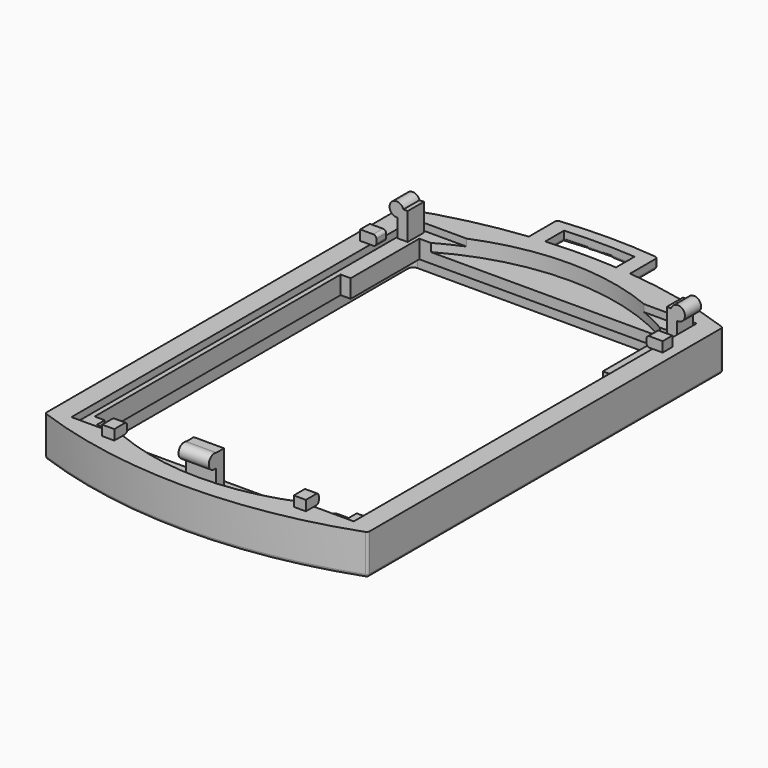
from build123d import *

# Parameters (mm, degrees)
CYLINDER001_R             = 0.7
CYLINDER001_DEPTH         = 2
CYLINDER001_ROLL_ANGLE    = 90
BOX005_W                  = 1
BOX005_H                  = 2
BOX005_DEPTH              = 3
FUSION002_PLACEMENT_ANGLE = 180
CYLINDER003_R             = 0.7
CYLINDER003_DEPTH         = 3
CYLINDER003_PITCH_ANGLE   = 90
BOX007_W                  = 3
BOX007_H                  = 1
BOX007_DEPTH              = 4.5
SKETCH023_W               = 1.2
SKETCH023_H               = 1.6
SKETCH023_W_2             = 1.6
SKETCH023_H_2             = 1.2
PAD005_DEPTH              = 1
FILLET010_R               = 0.3
PAD001_DEPTH              = 4
POCKET_DEPTH              = 1.5
POCKET001_DEPTH           = 3.5
SKETCH004_W               = 28
SKETCH004_H               = 42.5
POCKET002_DEPTH           = 0.7
POCKET005_DEPTH           = 1.5
FILLET007_R               = 0.3
PAD006_DEPTH              = 1
FILLET008_R               = 0.3
CYLINDER002_R             = 0.7
CYLINDER002_DEPTH         = 2
CYLINDER002_ROLL_ANGLE    = 90
BOX006_W                  = 1
BOX006_H                  = 2
BOX006_DEPTH              = 3


with BuildPart() as cylinder:
    # Cylinder001 → Cylinder001 (new body)
    with BuildSketch(Plane.XY):
        Circle(CYLINDER001_R)
    extrude(amount=CYLINDER001_DEPTH)


with BuildPart() as cylinder_1:
    # Cylinder001 roll: moved
    add(cylinder.part.rotate(Axis((0, 0, 0), (1, 0, 0)), CYLINDER001_ROLL_ANGLE))


with BuildPart() as cylinder_2:
    # Cylinder001 placement: moved
    add(cylinder_1.part.moved(Location((-0.2, 42, 1.8))))


with BuildPart() as fusion002:
    # Box005 → Box005 (new body)
    with BuildSketch(Plane(origin=(-0.1, 40, -1), x_dir=(1, 0, 0), z_dir=(0, 0, 1))):
        with Locations((0.5, 1)):
            Rectangle(BOX005_W, BOX005_H)
    extrude(amount=BOX005_DEPTH)

    # Fusion002: union Cylinder
    add(cylinder_2.part)


with BuildPart() as fusion002_1:
    # Fusion002 placement: moved
    add(fusion002.part.moved(Location((27.5, 82, 0))).rotate(Axis((27.5, 82, 0), (0, 0, 1)), FUSION002_PLACEMENT_ANGLE))


with BuildPart() as cylinder002:
    # Cylinder003 → Cylinder003 (new body)
    with BuildSketch(Plane.XY):
        Circle(CYLINDER003_R)
    extrude(amount=CYLINDER003_DEPTH)


with BuildPart() as cylinder002_1:
    # Cylinder003 pitch: moved
    add(cylinder002.part.rotate(Axis((0, 0, 0), (0, 1, 0)), CYLINDER003_PITCH_ANGLE))


with BuildPart() as cylinder002_2:
    # Cylinder003 placement: moved
    add(cylinder002_1.part.moved(Location((12.25, -1.9, 1.85))))


with BuildPart() as fusion_conn_top:
    # Box007 → Box007 (new body)
    with BuildSketch(Plane(origin=(12.25, -1.7, -2), x_dir=(1, 0, 0), z_dir=(0, 0, 1))):
        with Locations((1.5, 0.5)):
            Rectangle(BOX007_W, BOX007_H)
    extrude(amount=BOX007_DEPTH)

    # Fusion004: union Cylinder002
    add(cylinder002_2.part)


with BuildPart() as fillet010:
    # Sketch023 → Pad005 (new body)
    with BuildSketch(Plane.XY):
        with Locations((4.2, -0.45)):
            Rectangle(SKETCH023_W, SKETCH023_H)
        with Locations((23.2, -0.45)):
            Rectangle(SKETCH023_W, SKETCH023_H)
        with Locations((-0.45, 37.4)):
            Rectangle(SKETCH023_W_2, SKETCH023_H_2)
        with Locations((27.95, 37.4)):
            Rectangle(SKETCH023_W_2, SKETCH023_H_2)
    extrude(amount=PAD005_DEPTH)

    # Fillet010
    fillet010_edges = [fillet010.edges().sort_by_distance(p)[0] for p in [
        (27.15, 37.4, 0),
        (27.15, 37.4, 1),
        (0.35, 37.4, 0),
        (0.35, 37.4, 1),
        (4.2, 0.35, 0),
        (4.2, 0.35, 1),
        (23.2, 0.35, 0),
        (23.2, 0.35, 1),
    ]]
    fillet(fillet010_edges, radius=FILLET010_R)


with BuildPart() as fillet007_top:
    # Sketch → Pad001 (new body)
    with BuildSketch(Plane(origin=(13.75, 21, -4), x_dir=(1, 0, 0), z_dir=(0, 0, 1))):
        with BuildLine():
            ThreePointArc((16, 22), (0, 24.8188), (-16, 22))
            Line((-16, 22), (-16, -22))
            ThreePointArc((-16, -22), (0, -24.8188), (16, -22))
            Line((16, -22), (16, 22))
        make_face()
    extrude(amount=PAD001_DEPTH)

    # Sketch002 → Pocket (cut)
    with BuildSketch(Plane(origin=(13.75, 21, -4), x_dir=(1, 0, 0), z_dir=(0, 0, -1))):
        with BuildLine():
            Line((-13.5, 21), (13.5, 21))
            ThreePointArc((14, 20.5), (13.853553, 20.853553), (13.5, 21))
            Line((14, 20.5), (14, -20.5))
            ThreePointArc((13.5, -21), (13.853553, -20.853553), (14, -20.5))
            Line((13.5, -21), (-13.5, -21))
            ThreePointArc((-14, -20.5), (-13.853553, -20.853553), (-13.5, -21))
            Line((-14, -20.5), (-14, 20.5))
            ThreePointArc((-13.5, 21), (-13.853553, 20.853553), (-14, 20.5))
        make_face()
    extrude(amount=-POCKET_DEPTH, mode=Mode.SUBTRACT)

    # Sketch003 → Pocket001 (cut)
    with BuildSketch(Plane(origin=(13.75, 21, 0), x_dir=(1, 0, 0), z_dir=(0, 0, 1))):
        Polygon((-13.5, -19), (-13.5, 11.5), (-12.5, 11.5), (-12.5, 20), (12.5, 20), (12.5, 11.5), (13.5, 11.5), (13.5, -19), (12.5, -19), (12.5, -20), (-12.5, -20), (-12.5, -19), align=None)
    extrude(amount=-POCKET001_DEPTH, mode=Mode.SUBTRACT)

    # Sketch004 → Pocket002 (cut)
    with BuildSketch(Plane(origin=(13.75, 21, 0), x_dir=(1, 0, 0), z_dir=(0, 0, 1))):
        Rectangle(SKETCH004_W, SKETCH004_H)
    extrude(amount=-POCKET002_DEPTH, mode=Mode.SUBTRACT)

    # Sketch008 → Pocket005 (cut)
    with BuildSketch(Plane(origin=(13.75, 21, 0), x_dir=(1, 0, 0), z_dir=(0, 0, 1))):
        with BuildLine():
            ThreePointArc((12, 19.621417), (0, 23), (-12, 19.621417))
            Line((-12, 19.621417), (12, 19.621417))
        make_face()
        with BuildLine():
            ThreePointArc((-12, -19.621417), (0, -23), (12, -19.621417))
            Line((-12, -19.621417), (12, -19.621417))
        make_face()
    extrude(amount=-POCKET005_DEPTH, mode=Mode.SUBTRACT)

    # Fillet007
    fillet007_edges = [fillet007_top.edges().sort_by_distance(p)[0] for p in [
        (-2.25, 21, -4),
        (-2.25, 43, -2),
        (13.75, 45.8188, -4),
        (29.75, 43, -2),
        (29.75, 21, -4),
        (29.75, -1, -2),
        (13.75, -3.8188, -4),
        (-2.25, -1, -2),
    ]]
    fillet(fillet007_edges, radius=FILLET007_R)


with BuildPart() as fillet008_hanger_top:
    # Sketch019 → Pad006 (new body)
    with BuildSketch(Plane(origin=(13.5, 1, -1), x_dir=(1, 0, 0), z_dir=(0, 0, 1))):
        with BuildLine():
            ThreePointArc((5, 48), (0, 48.266714), (-5, 48))
            Line((-5, 48), (-5, 44))
            Line((-5, 44), (-3.5, 44))
            Line((-3.5, 47), (-3.5, 44))
            ThreePointArc((3.5, 47), (0, 47.130139), (-3.5, 47))
            Line((3.5, 44), (3.5, 47))
            Line((5, 44), (3.5, 44))
            Line((5, 48), (5, 44))
        make_face()
    extrude(amount=PAD006_DEPTH)

    # Fillet008
    fillet008_edges = [fillet008_hanger_top.edges().sort_by_distance(p)[0] for p in [
        (18.5, 47, -1),
        (17, 46.5, -1),
        (18.5, 49, -0.5),
        (13.5, 49.266714, -1),
        (13.5, 48.130139, -1),
        (10, 46.5, -1),
        (8.5, 47, -1),
        (8.5, 49, -0.5),
    ]]
    fillet(fillet008_edges, radius=FILLET008_R)


with BuildPart() as cylinder001:
    # Cylinder002 → Cylinder002 (new body)
    with BuildSketch(Plane.XY):
        Circle(CYLINDER002_R)
    extrude(amount=CYLINDER002_DEPTH)


with BuildPart() as cylinder001_1:
    # Cylinder002 roll: moved
    add(cylinder001.part.rotate(Axis((0, 0, 0), (1, 0, 0)), CYLINDER002_ROLL_ANGLE))


with BuildPart() as cylinder001_2:
    # Cylinder002 placement: moved
    add(cylinder001_1.part.moved(Location((-0.2, 42, 1.8))))


with BuildPart() as fusion016:
    # Box006 → Box006 (new body)
    with BuildSketch(Plane(origin=(-0.1, 40, -1), x_dir=(1, 0, 0), z_dir=(0, 0, 1))):
        with Locations((0.5, 1)):
            Rectangle(BOX006_W, BOX006_H)
    extrude(amount=BOX006_DEPTH)

    # Fusion015: union Cylinder001
    add(cylinder001_2.part)

    # Fusion016: union Fusion002, Fusion-conn-top, Fillet010, Fillet007-top, Fillet008-hanger-top
    add(fusion002_1.part)
    add(fusion_conn_top.part)
    add(fillet010.part)
    add(fillet007_top.part)
    add(fillet008_hanger_top.part)


with BuildPart() as fusion016_1:
    # Fusion016 placement: moved
    add(fusion016.part.moved(Location((0, 0, -4))))


solid = fusion016_1.part
